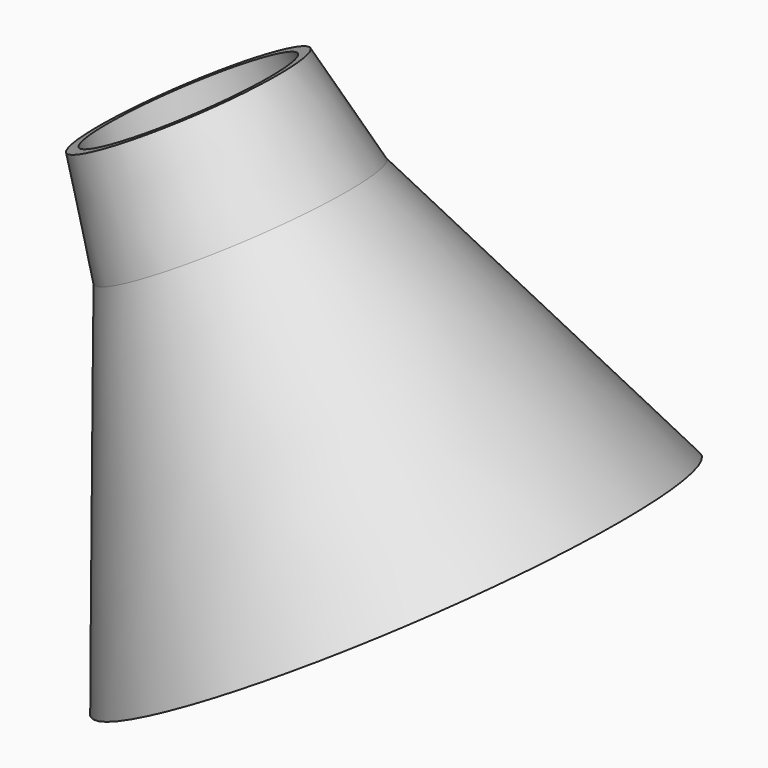
from build123d import *

# Parameters (mm, degrees)
F2_T     = -1
F5_ANGLE = 30


with BuildPart() as f1:
    # F0 (on Front) → F1 (revolve)
    with BuildSketch(Plane.XZ):
        Polygon((10, 40), (0, 40), (0, 0), (25, 0), (12, 30), align=None)
    revolve(axis=Axis((0, 0, 20), (0, 0, 1)))

    # F2
    f2_openings = [f1.faces().sort_by_distance(p)[0] for p in [
        (0, 0, 0),
        (0, 0, 40),
    ]]
    offset(amount=F2_T, openings=f2_openings, kind=Kind.INTERSECTION)


with BuildPart() as f1_1:
    # F3: moved
    add(f1.part.moved(Location((30, 0, 50))))


with BuildPart() as f1_2:
    # F5: moved
    add(f1_1.part.rotate(Axis((30, 0, 90), (0, -1, 0)), F5_ANGLE))


solid = f1_2.part
